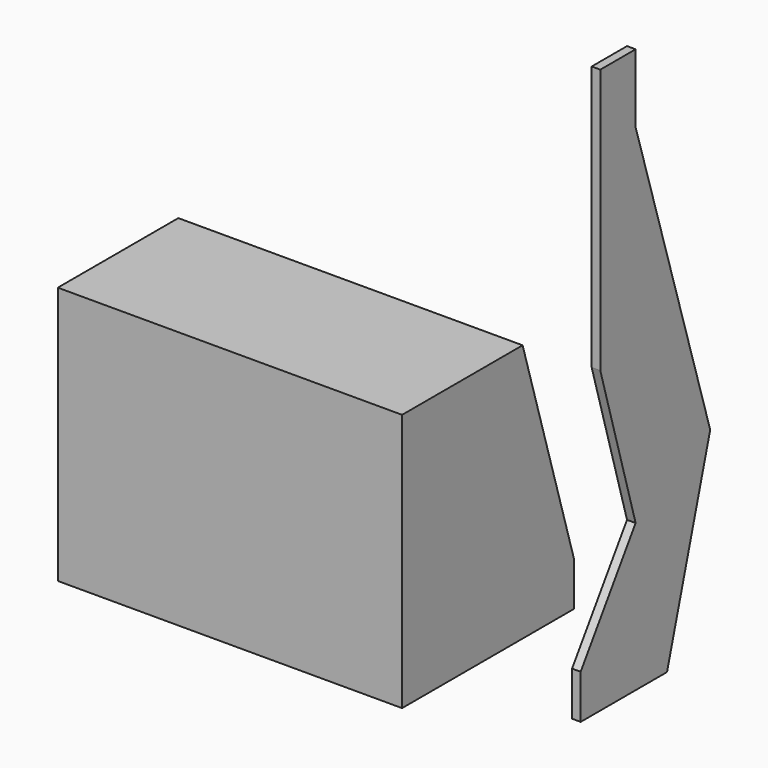
from build123d import *

# Parameters (mm, degrees)
F0_W     = 2032
F0_H     = 1524
F1_DEPTH = 1270
F2_SIZE2 = 381
F2_SIZE  = 1270
F4_DEPTH = 50.8


with BuildPart() as f1:
    # F0 (on Front) → F1 (new body)
    with BuildSketch(Plane.XZ):
        with Locations((-187.0675954819, 393.5881609917)):
            Rectangle(F0_W, F0_H)
    extrude(amount=F1_DEPTH)

    # F2
    f2_edges = [f1.edges().sort_by_distance(p)[0] for p in [
        (-187.067595, 0, 1155.588161),
    ]]
    f2_side = f1.faces().sort_by_distance((-187.067595, 0, 393.588161))[0]
    chamfer(f2_edges, length=F2_SIZE, length2=F2_SIZE2, reference=f2_side)


with BuildPart() as f4:
    # F3 (on Right) → F4 (new body)
    with BuildSketch(Plane.YZ):
        Polygon((1425.5683422049, 1300.7762432086), (1425.5683422049, 1706.1868906009), (1164.9472713444, 1706.1868906009), (1164.9472713444, 142.4601227037), (1425.5683422049, -755.234837532), (1020.1576948166, -1363.3507490158), (1020.1576948166, -1623.9718198776), (1657.2315692902, -1623.9718198776), (1975.7684469223, -494.6137070656), align=None)
    extrude(amount=F4_DEPTH)


solid = Compound([f1.part, f4.part])
